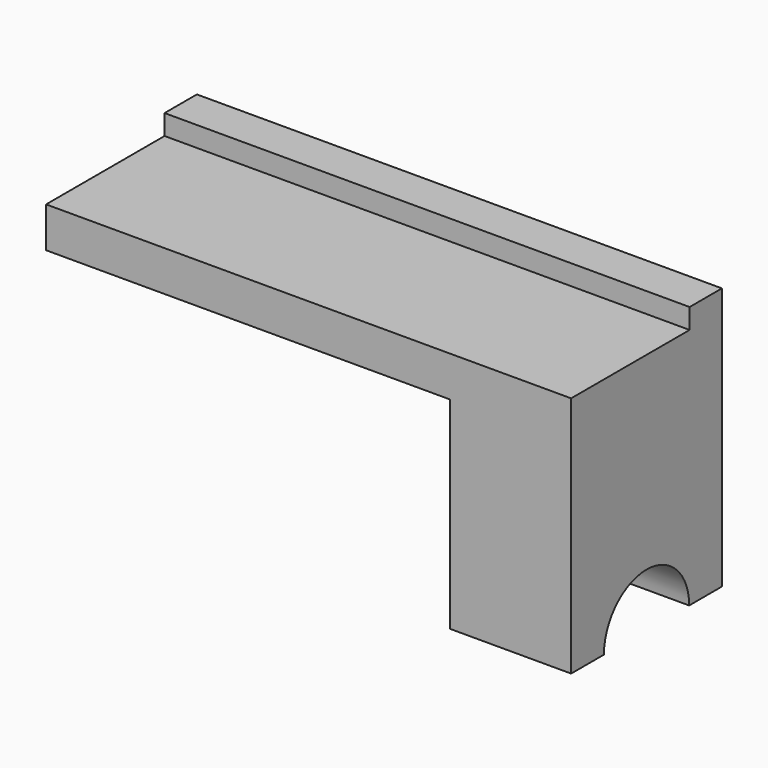
from build123d import *

# Parameters (mm, degrees)
F0_W     = 152.4
F0_H     = 76.2
F1_DEPTH = 1981.2
F2_W     = 1524
F2_H     = 762
F2_W_2   = 59.057254
F3_DEPTH = 711.2


with BuildPart() as f1:
    # F0 (on Right) → F1 (new body)
    with BuildSketch(Plane.YZ):
        with BuildLine():
            Line((208.894142, 713.451522), (-349.905858, 713.451522))
            Line((-349.905858, 713.451522), (-349.905858, -200.948478))
            Line((-349.905858, -200.948478), (-195.334996, -200.948478))
            ThreePointArc((-195.334996, -200.948478), (5.694142, 0.080659), (206.723279, -200.948478))
            Line((206.723279, -200.948478), (361.294142, -200.948478))
            Line((361.294142, -200.948478), (361.294142, 713.451522))
            Line((361.294142, 713.451522), (208.894142, 713.451522))
        make_face()
        with Locations((285.094142, 751.551522)):
            Rectangle(F0_W, F0_H)
    extrude(amount=F1_DEPTH)

    # F2 (on face) → F3 (cut)
    with BuildSketch(Plane.XZ.offset(349.905858)):
        with Locations((762, 180.051522)):
            Rectangle(F2_W, F2_H)
        with Locations((-29.528627, 180.051522)):
            Rectangle(F2_W_2, F2_H)
    extrude(amount=-F3_DEPTH, mode=Mode.SUBTRACT)


solid = f1.part
